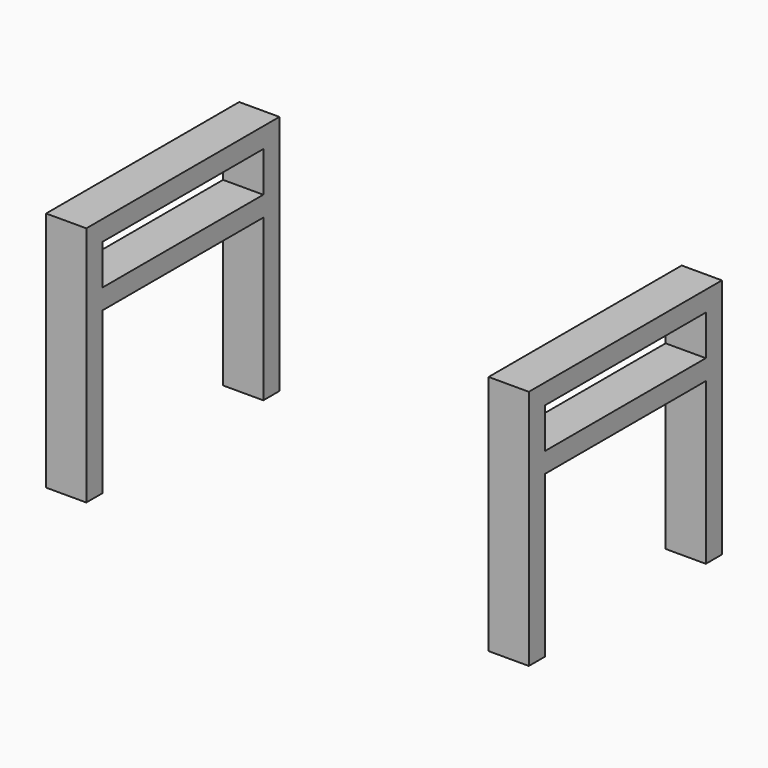
from build123d import *

# Parameters (mm, degrees)
F0_W     = 304.8
F0_H     = 152.4
F1_DEPTH = 152.4
F2_W     = 127
F2_H     = 25.4
F2_H_2   = 101.6
F3_DEPTH = 304.8
F4_W     = 254
F4_H     = 152.4
F5_DEPTH = 152.4


with BuildPart() as f1:
    # F0 (on Front) → F1 (new body)
    with BuildSketch(Plane.XZ):
        with Locations((2.0949281752, -2.979756714)):
            Rectangle(F0_W, F0_H)
    extrude(amount=F1_DEPTH)

    # F2 (on face) → F3 (cut)
    with BuildSketch(Plane(origin=(-150.3050718248, 0, 0), x_dir=(0, -1, 0), z_dir=(-1, 0, 0))):
        with Locations((76.2, 47.820243286)):
            Rectangle(F2_W, F2_H)
        with Locations((76.2, -28.379756714)):
            Rectangle(F2_W, F2_H_2)
    extrude(amount=-F3_DEPTH, mode=Mode.SUBTRACT)

    # F4 (on face) → F5 (cut)
    with BuildSketch(Plane.XY.offset(73.220243286)):
        with Locations((2.0949281752, -76.2)):
            Rectangle(F4_W, F4_H)
    extrude(amount=-F5_DEPTH, mode=Mode.SUBTRACT)


solid = f1.part
